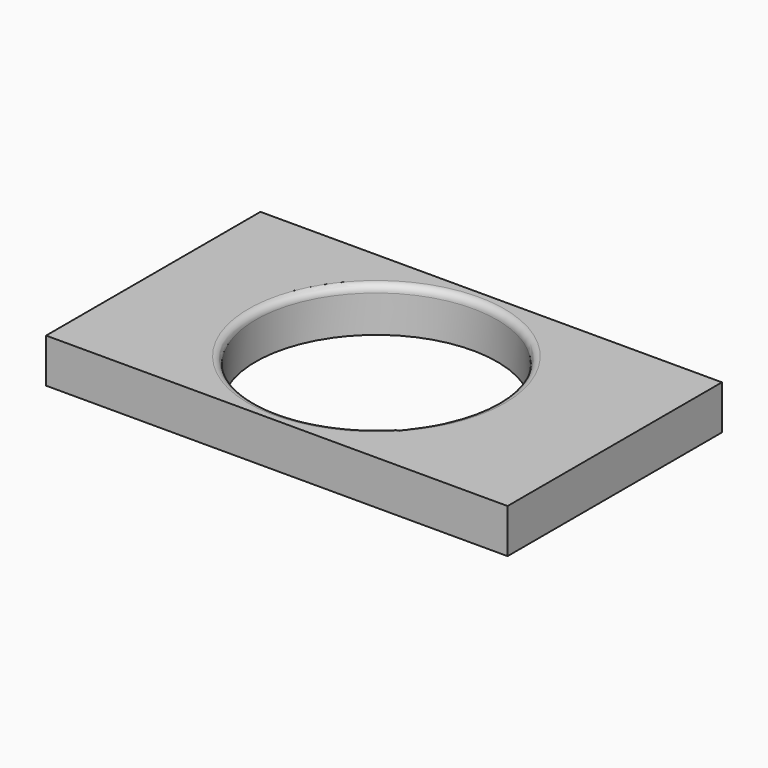
from build123d import *

# Parameters (mm, degrees)
F0_W     = 161.985158
F0_H     = 94.046846
F0_R     = 42.376618
F1_DEPTH = 15.494
F2_R     = 2.54


with BuildPart() as f1:
    # F0 (on Top) → F1 (new body)
    with BuildSketch(Plane.XY):
        Rectangle(F0_W, F0_H)
        with Locations((-2.667, 0)):
            Circle(F0_R, mode=Mode.SUBTRACT)
    extrude(amount=F1_DEPTH)

    # F2
    f2_edges = [f1.edges().sort_by_distance(p)[0] for p in [
        (-45.043619, 0, 15.494),
    ]]
    fillet(f2_edges, radius=F2_R)


solid = f1.part
